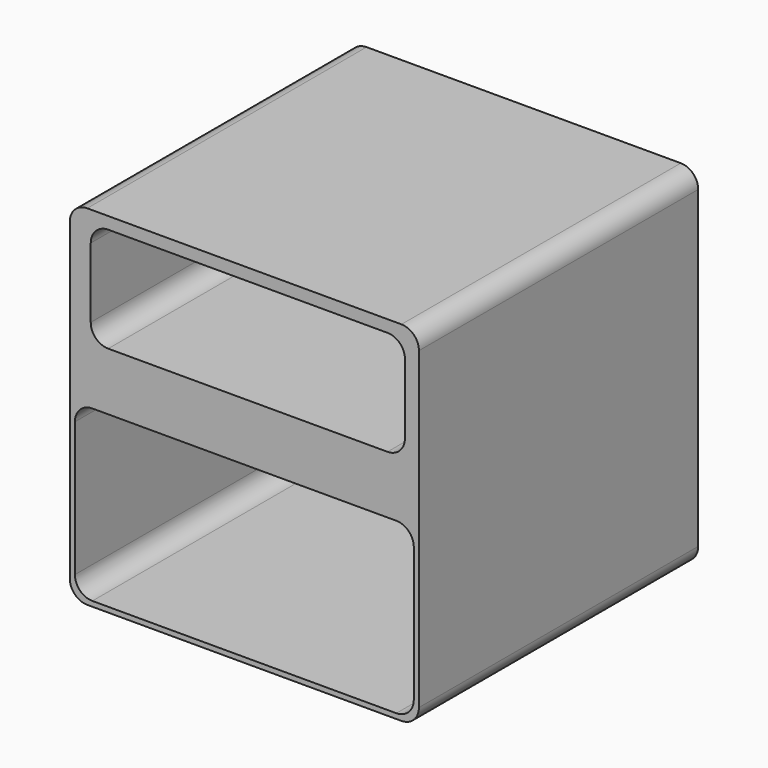
from build123d import *

# Parameters (mm, degrees)
F1_DEPTH = 127


with BuildPart() as f1:
    # F0 (on Front) → F1 (new body)
    with BuildSketch(Plane.XZ):
        with BuildLine():
            ThreePointArc((63.5, 57.15), (61.640128, 61.640128), (57.15, 63.5))
            Line((57.15, 63.5), (-57.15, 63.5))
            ThreePointArc((-57.15, 63.5), (-61.640128, 61.640128), (-63.5, 57.15))
            Line((-63.5, 57.15), (-63.5, -57.15))
            ThreePointArc((-63.5, -57.15), (-61.640128, -61.640128), (-57.15, -63.5))
            Line((-57.15, -63.5), (57.15, -63.5))
            ThreePointArc((57.15, -63.5), (61.640128, -61.640128), (63.5, -57.15))
            Line((63.5, -57.15), (63.5, 57.15))
        make_face()
        with BuildLine():
            Line((55.290128, -61.640128), (-55.290128, -61.640128))
            ThreePointArc((-55.290128, -61.640128), (-59.780256, -59.780256), (-61.640128, -55.290128))
            Line((-61.640128, -55.290128), (-61.640128, -6.35))
            ThreePointArc((-61.640128, -6.35), (-59.780256, -1.859872), (-55.290128, 0))
            Line((-55.290128, 0), (55.290128, 0))
            ThreePointArc((55.290128, 0), (59.780256, -1.859872), (61.640128, -6.35))
            Line((61.640128, -6.35), (61.640128, -55.290128))
            ThreePointArc((61.640128, -55.290128), (59.780256, -59.780256), (55.290128, -61.640128))
        make_face(mode=Mode.SUBTRACT)
        with BuildLine():
            ThreePointArc((-55.879999, 52.781393), (-54.020127, 57.271521), (-49.529999, 59.131393))
            Line((-49.529999, 59.131393), (52.070001, 59.131393))
            ThreePointArc((52.070001, 59.131393), (56.56013, 57.271521), (58.420001, 52.781393))
            Line((58.420001, 52.781393), (58.420001, 27.381393))
            ThreePointArc((58.420001, 27.381393), (56.56013, 22.891265), (52.070001, 21.031393))
            Line((52.070001, 21.031393), (-49.529999, 21.031393))
            ThreePointArc((-49.529999, 21.031393), (-54.020127, 22.891265), (-55.879999, 27.381393))
            Line((-55.879999, 27.381393), (-55.879999, 52.781393))
        make_face(mode=Mode.SUBTRACT)
    extrude(amount=F1_DEPTH)


solid = f1.part
